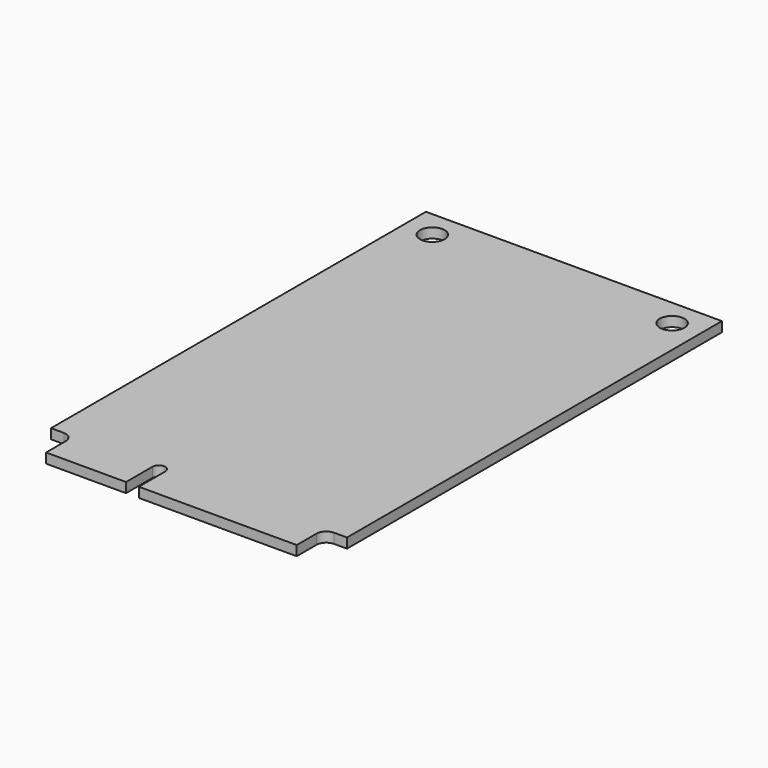
from build123d import *

# Parameters (mm, degrees)
PAD_DEPTH    = 1
SKETCH001_R  = 1.25
POCKET_DEPTH = 1.001


with BuildPart() as part:
    # Sketch → Pad (new body)
    with BuildSketch(Plane.XY):
        with BuildLine():
            Line((-15, -22), (-15, 25.5))
            Line((-15, 25.5), (15, 25.5))
            Line((15, 25.5), (15, -22))
            Line((15, -22), (13.7, -22))
            ThreePointArc((13.7, -22), (12.992893, -22.292893), (12.7, -23))
            Line((12.7, -23), (12.7, -25.5))
            Line((12.7, -25.5), (-3.3, -25.5))
            Line((-3.3, -25.5), (-3.3, -22.15))
            ThreePointArc((-3.3, -22.15), (-3.95, -21.5), (-4.6, -22.15))
            Line((-4.6, -25.5), (-4.6, -22.15))
            Line((-12.7, -25.5), (-4.6, -25.5))
            Line((-12.7, -23), (-12.7, -25.5))
            ThreePointArc((-12.7, -23), (-12.992893, -22.292893), (-13.7, -22))
            Line((-15, -22), (-13.7, -22))
        make_face()
    extrude(amount=PAD_DEPTH)

    # Sketch001 (on Face16 of Pad) → Pocket (cut, through all)
    with BuildSketch(Plane.XY.offset(1)):
        with Locations((-12.15, 22.75)):
            Circle(SKETCH001_R)
        with Locations((12.15, 22.75)):
            Circle(SKETCH001_R)
    extrude(amount=-POCKET_DEPTH, mode=Mode.SUBTRACT)


solid = part.part
